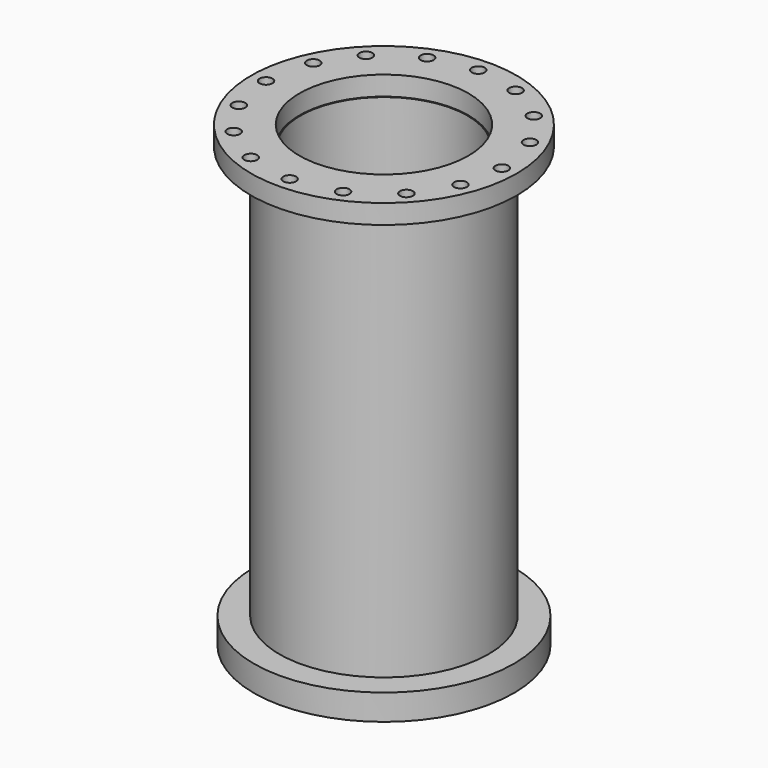
from build123d import *

# Parameters (mm, degrees)
F0_R     = 205.633552
F0_R_2   = 164.498916
F1_DEPTH = 812.8
F2_R     = 256.008215
F3_DEPTH = 50.8
F4_R     = 261.306148
F4_R_2   = 166.325604
F5_DEPTH = 38.1
F7_D     = 25.4
F7_DEPTH = 50.8


with BuildPart() as f1:
    # F0 (on Top) → F1 (new body)
    with BuildSketch(Plane.XY):
        Circle(F0_R)
        Circle(F0_R_2, mode=Mode.SUBTRACT)
    extrude(amount=-F1_DEPTH)

    # F2 (on face) → F3 (join)
    with BuildSketch(Plane(origin=(0, 0, -812.8), x_dir=(1, 0, 0), z_dir=(0, 0, -1))):
        Circle(F2_R)
    extrude(amount=F3_DEPTH)

    # F4 (on face) → F5 (join)
    with BuildSketch(Plane.XY):
        Circle(F4_R)
        Circle(F4_R_2, mode=Mode.SUBTRACT)
    extrude(amount=F5_DEPTH)

    # F7
    with Locations(Plane.XY.offset(38.1)):
        with Locations((87.061769, 215.107856), (161.676934, 166.468347), (212.168418, 93.998425), (232.058487, 0), (216.818106, -82.710644), (170.387229, -157.54153), (90.523878, -213.673978), (0, -232.058487), (-91.290017, -213.347778), (-165.596627, -162.569673), (-214.243309, -89.168077), (-232.058487, 0), (-212.893799, 92.34377), (-165.596627, 162.569673), (-87.061769, 215.107856), (0, 232.058487)):
            Hole(F7_D / 2, depth=F7_DEPTH)


solid = f1.part
